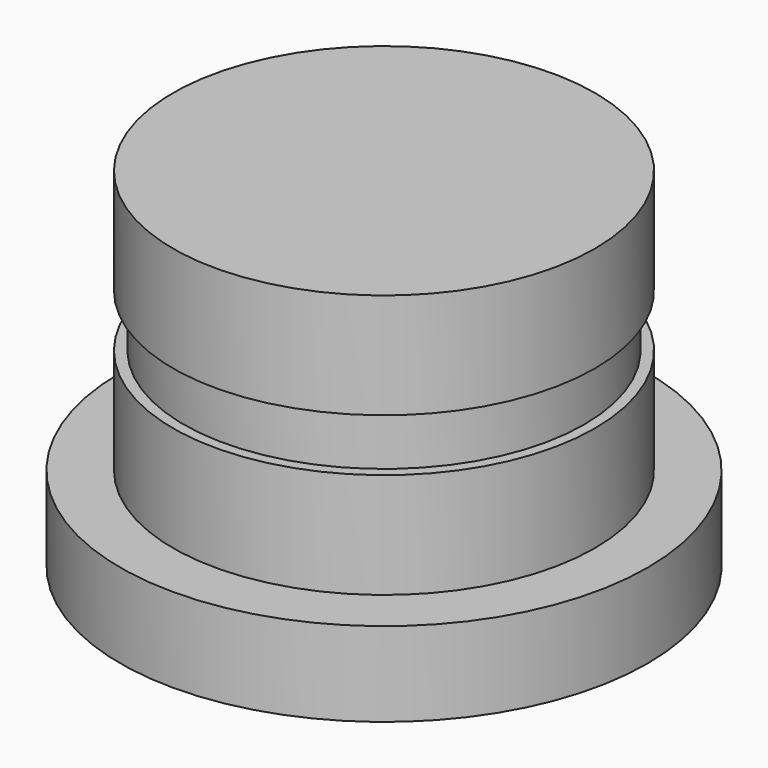
from build123d import *

# Parameters (mm, degrees)
F0_R     = 25
F1_DEPTH = 8
F2_R     = 20
F3_DEPTH = 10
F4_R     = 19
F5_DEPTH = 5
F6_R     = 20
F7_DEPTH = 10
F8_R     = 17.5
F9_DEPTH = 25


with BuildPart() as f1:
    # F0 (on Top) → F1 (new body)
    with BuildSketch(Plane.XY):
        Circle(F0_R)
    extrude(amount=F1_DEPTH)



with BuildPart() as f3:
    # F2 (on face) → F3 (new body)
    with BuildSketch(Plane.XY.offset(23)):
        Circle(F2_R)
    extrude(amount=F3_DEPTH)

    # F4 (on face) → F5 (join)
    with BuildSketch(Plane.XY.offset(18)):
        Circle(F4_R)
    extrude(amount=F5_DEPTH)


with BuildPart() as f1_1:
    add(f1.part)

    add(f3.part)  # F7 merges F3
    # F6 (on face) → F7 (join)
    with BuildSketch(Plane.XY.offset(8)):
        Circle(F6_R)
    extrude(amount=F7_DEPTH)

    # F8 (on face) → F9 (cut)
    with BuildSketch(Plane(origin=(0, 0, 0), x_dir=(1, 0, 0), z_dir=(0, 0, -1))):
        Circle(F8_R)
    extrude(amount=-F9_DEPTH, mode=Mode.SUBTRACT)


solid = f1_1.part
